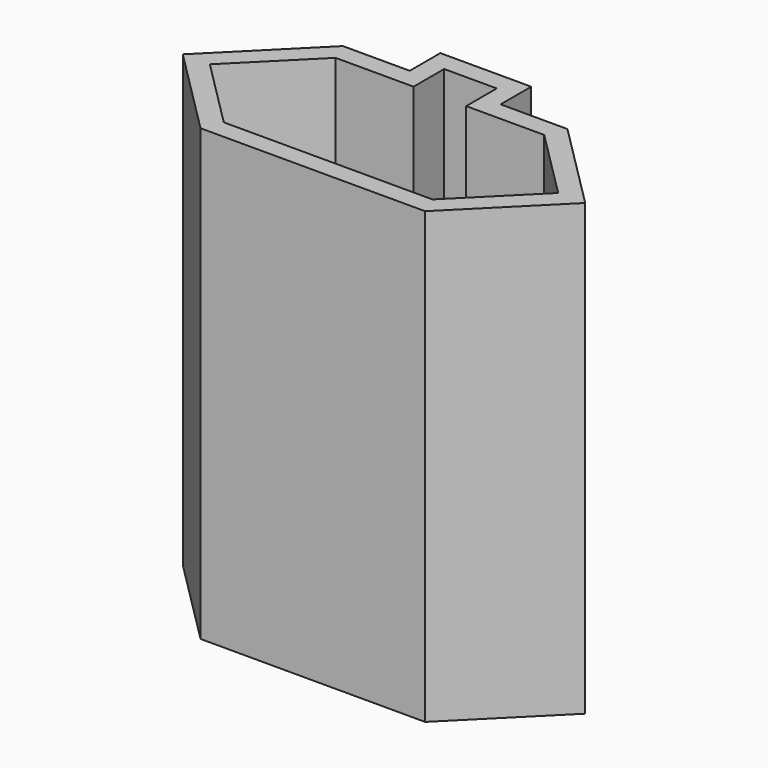
from build123d import *

# Parameters (mm, degrees)
F1_DEPTH  = 45
F2_W      = 5.5
F2_H      = 2
F3_DEPTH  = 25
F5_DEPTH  = 25
F7_DEPTH  = 25
F9_DEPTH  = 5.5
F11_DEPTH = 2
F12_W     = 5
F12_H     = 14.6
F13_DEPTH = 25


with BuildPart() as f1:
    # F0 (on Top) → F1 (new body)
    with BuildSketch(Plane.XY):
        Polygon((-11.7355339059, 9.3), (-21.0355339059, 0), (-11.7355339059, -9.3), (11.7355339059, -9.3), (21.0355339059, 0), (11.7355339059, 9.3), align=None)
        Polygon((10.9071067812, -7.3), (-10.9071067812, -7.3), (-18.2071067812, 0), (-10.9071067812, 7.3), (10.9071067812, 7.3), (18.2071067812, 0), align=None, mode=Mode.SUBTRACT)
    extrude(amount=F1_DEPTH)

    # F2 (on face) → F3 (cut)
    with BuildSketch(Plane.XY.offset(45)):
        with Locations((0, 8.3)):
            Rectangle(F2_W, F2_H)
    extrude(amount=-F3_DEPTH, mode=Mode.SUBTRACT)

    # F4 (on face) → F5 (join)
    with BuildSketch(Plane.XY.offset(45)):
        Polygon((2.75, 11.3), (2.75, 9.3), (4.75, 9.3), (4.75, 13.3), (-4.75, 13.3), (-4.75, 9.3), (-2.75, 9.3), (-2.75, 11.3), align=None)
    extrude(amount=-F5_DEPTH)

    # F6 (on face) → F7 (cut)
    with BuildSketch(Plane.YZ.offset(4.75)):
        Polygon((13.3, 26.9282032303), (9.3, 20), (13.3, 20), align=None)
    extrude(amount=-F7_DEPTH, mode=Mode.SUBTRACT)

    # F8 (on face) → F9 (join, through all)
    with BuildSketch(Plane.YZ.offset(-2.75)):
        Polygon((7.3, 20), (9.3, 20), (11.3, 23.4641016151), (11.3, 26.9282032303), align=None)
    extrude(amount=F9_DEPTH)

    # F10 (on face) → F11 (join)
    with BuildSketch(Plane(origin=(0, 0, 0), x_dir=(1, 0, 0), z_dir=(0, 0, -1))):
        Polygon((-11.7355339059, 9.3), (-21.0355339059, 0), (-11.7355339059, -9.3), (11.7355339059, -9.3), (21.0355339059, 0), (11.7355339059, 9.3), align=None)
        Polygon((-18.2071067812, 0), (-10.9071067812, 7.3), (10.9071067812, 7.3), (18.2071067812, 0), (10.9071067812, -7.3), (-10.9071067812, -7.3), align=None, mode=Mode.SUBTRACT)
        Polygon((10.9071067812, 7.3), (-10.9071067812, 7.3), (-18.2071067812, 0), (-10.9071067812, -7.3), (10.9071067812, -7.3), (18.2071067812, 0), align=None)
    extrude(amount=F11_DEPTH)

    # F12 (on face) → F13 (join)
    with BuildSketch(Plane.XY):
        Polygon((18.2071067812, 0), (13.2071067812, 5), (13.2071067812, -5), align=None)
        Polygon((-13.2071067812, -5), (-13.2071067812, 5), (-18.2071067812, 0), align=None)
        Rectangle(F12_W, F12_H)
    extrude(amount=F13_DEPTH)


solid = f1.part
